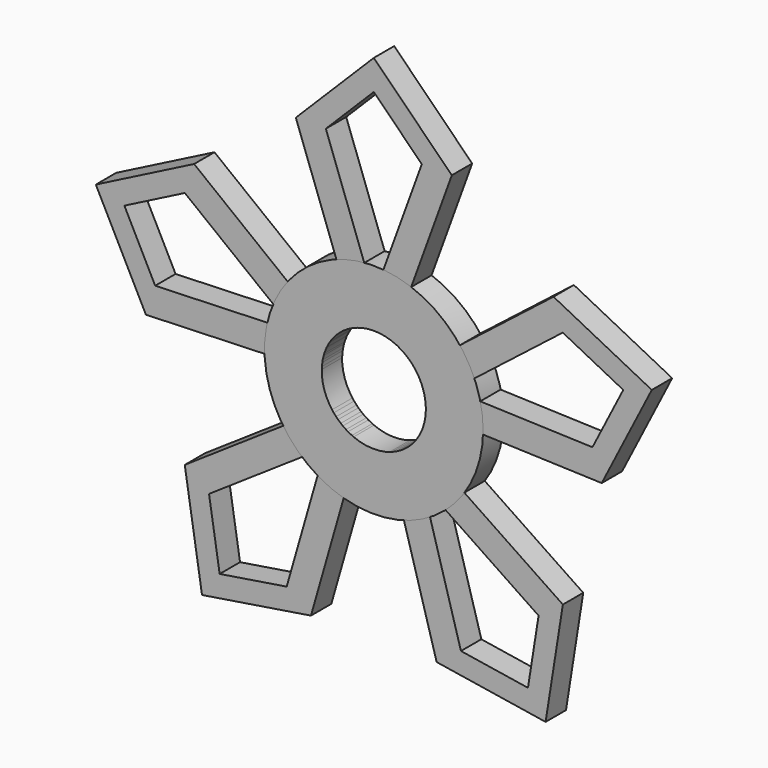
from build123d import *

# Parameters (mm, degrees)
F1_DEPTH = 1.2446
F2_R     = 5.339968
F3_DEPTH = 1.2446
F4_R     = 2.543919
F5_DEPTH = 1.27


with BuildPart() as f1:
    # F0 (on Front) → F1 (new body)
    with BuildSketch(Plane.XZ):
        Polygon((-3.81, 10.467889), (0, 0), (3.81, 10.467889), (0, 14.277889), align=None)
        Polygon((2.343843, 10.467889), (0, 4.028232), (-2.343843, 10.467889), (0, 12.811732), align=None, mode=Mode.SUBTRACT)
        Polygon((-11.132909, -0.38877), (0, 0), (-8.778199, 6.858281), (-13.579079, 4.41211), align=None)
        Polygon((-9.231267, 5.463883), (-3.831077, 1.244792), (-10.679841, 1.005628), (-12.184682, 3.959043), align=None, mode=Mode.SUBTRACT)
        Polygon((-3.070516, -10.708162), (0, 0), (-9.235226, -6.229238), (-8.392333, -11.551055), align=None)
        Polygon((-8.04908, -7.091024), (-2.367736, -3.258908), (-4.256662, -9.846377), (-7.530547, -10.364909), align=None, mode=Mode.SUBTRACT)
        Polygon((9.235226, -6.229238), (0, 0), (3.070516, -10.708162), (8.392333, -11.551055), align=None)
        Polygon((4.256662, -9.846377), (2.367736, -3.258908), (8.04908, -7.091024), (7.530547, -10.364909), align=None, mode=Mode.SUBTRACT)
        Polygon((8.778199, 6.858281), (0, 0), (11.132909, -0.38877), (13.579079, 4.41211), align=None)
        Polygon((10.679841, 1.005628), (3.831077, 1.244792), (9.231267, 5.463883), (12.184682, 3.959043), align=None, mode=Mode.SUBTRACT)
    extrude(amount=-F1_DEPTH)


with BuildPart() as f3:
    # F2 (on Front) → F3 (new body)
    with BuildSketch(Plane.XZ):
        Circle(F2_R)
    extrude(amount=-F3_DEPTH)


with BuildPart() as f5_tool:
    # F4 (on Front) → F5 (new body)
    with BuildSketch(Plane.XZ):
        Circle(F4_R)
    extrude(amount=-F5_DEPTH)


with BuildPart() as f1_1:
    add(f1.part)

    # F5: cut by f5_tool
    add(f5_tool.part, mode=Mode.SUBTRACT)


with BuildPart() as f3_1:
    add(f3.part)

    # F5: cut by f5_tool
    add(f5_tool.part, mode=Mode.SUBTRACT)


solid = Compound([f1_1.part, f3_1.part])
